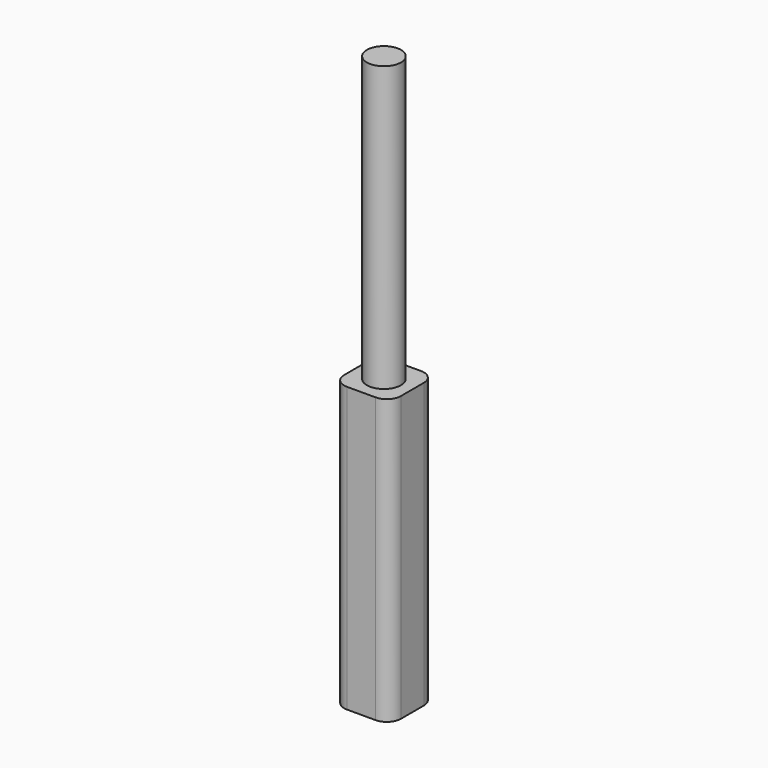
from build123d import *

# Parameters (mm, degrees)
F0_R     = 6
F1_DEPTH = 100
F3_DEPTH = 100


with BuildPart() as f1:
    # F0 (on Top) → F1 (new body)
    with BuildSketch(Plane.XY):
        Circle(F0_R)
    extrude(amount=F1_DEPTH)

    # F2 (on face) → F3 (join)
    with BuildSketch(Plane(origin=(0, 0, 0), x_dir=(1, 0, 0), z_dir=(0, 0, -1))):
        with BuildLine():
            ThreePointArc((10, 5), (8.535534, 8.535534), (5, 10))
            Line((5, 10), (0, 10))
            Line((0, 10), (-5.001644, 10))
            ThreePointArc((-5.001644, 10), (-8.537178, 8.535534), (-10.001644, 5))
            Line((-10.001644, 5), (-10.001644, -5.057309))
            ThreePointArc((-10.001644, -5.057309), (-8.537178, -8.592843), (-5.001644, -10.057309))
            Line((-5.001644, -10.057309), (5, -10.057309))
            ThreePointArc((5, -10.057309), (8.535534, -8.592843), (10, -5.057309))
            Line((10, -5.057309), (10, 0))
            Line((10, 0), (10, 5))
        make_face()
    extrude(amount=F3_DEPTH)


solid = f1.part
